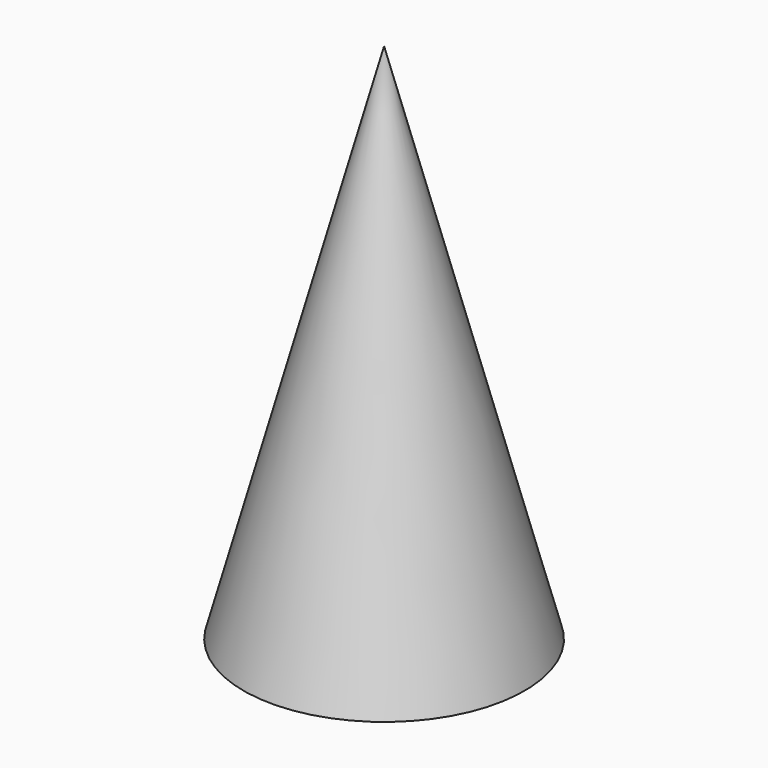
from build123d import *

# Parameters (mm, degrees)
F2_R     = 1
F3_DEPTH = 5


with BuildPart() as f1:
    # F0 (on Front) → F1 (revolve)
    with BuildSketch(Plane.XZ):
        Polygon((-17.5, 0), (0, 0), (0, 65), align=None)
    revolve(axis=Axis((0, 0, 32.5), (0, 0, 1)))

    # F2 (on face) → F3 (cut)
    with BuildSketch(Plane(origin=(0, 0, 0), x_dir=(1, 0, 0), z_dir=(0, 0, -1))):
        with Locations((0, -12.5)):
            Circle(F2_R)
        with Locations((-12.5, 0)):
            Circle(F2_R)
        with Locations((0, 12.5)):
            Circle(F2_R)
        with Locations((12.5, 0)):
            Circle(F2_R)
    extrude(amount=-F3_DEPTH, mode=Mode.SUBTRACT)


solid = f1.part
